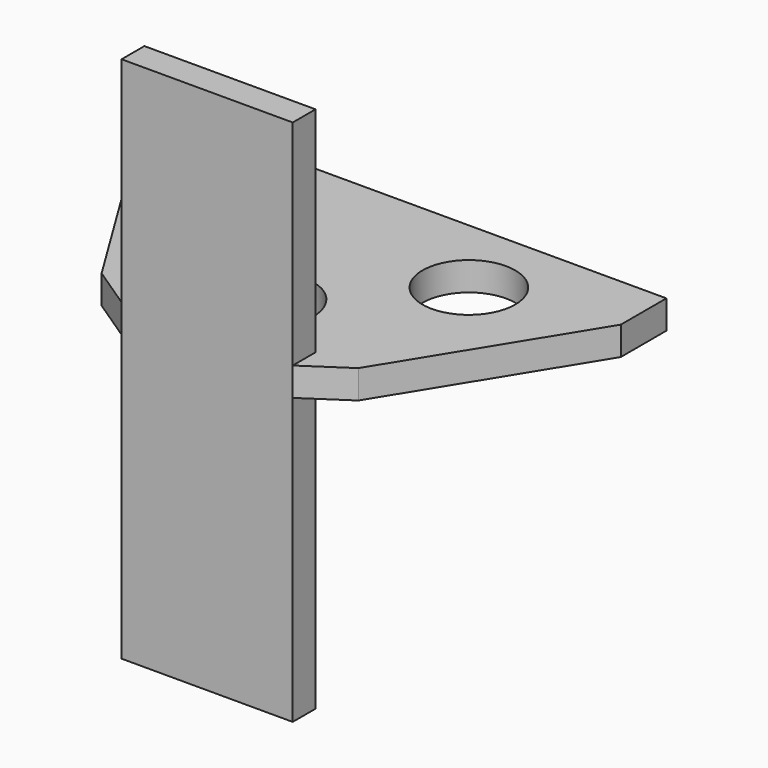
from build123d import *

# Parameters (mm, degrees)
BOX_W           = 34
BOX_H           = 17
BOX_DEPTH       = 2
SKETCH_R        = 3.25
POCKET_DEPTH    = 2
SKETCH001_W     = 6.498788
SKETCH001_H     = 3.187234
POCKET001_DEPTH = 2
POCKET002_DEPTH = 2
SKETCH003_W     = 12
SKETCH003_H     = 2
PAD_DEPTH       = 2
SKETCH004_W     = 12
SKETCH004_H     = 2
PAD001_DEPTH    = 15
SKETCH005_W     = 12
SKETCH005_H     = 2
PAD002_DEPTH    = 20
PAD003_DEPTH    = 2


with BuildPart() as part:
    # Box → Box (new body)
    with BuildSketch(Plane.XY):
        with Locations((17, 8.5)):
            Rectangle(BOX_W, BOX_H)
    extrude(amount=BOX_DEPTH)

    # Sketch → Pocket (cut)
    with BuildSketch(Plane.XY.offset(2)):
        with Locations((9.25, 11.25)):
            Circle(SKETCH_R)
        with Locations((24.75, 11.25)):
            Circle(SKETCH_R)
        with Locations((17, 3.25)):
            Circle(SKETCH_R)
    extrude(amount=-POCKET_DEPTH, mode=Mode.SUBTRACT)

    # Sketch001 → Pocket001 (cut)
    with BuildSketch(Plane.XY.offset(2)):
        with Locations((17, 1.593617)):
            Rectangle(SKETCH001_W, SKETCH001_H)
    extrude(amount=-POCKET001_DEPTH, mode=Mode.SUBTRACT)

    # Sketch002 → Pocket002 (cut)
    with BuildSketch(Plane.XY.offset(2)):
        Polygon((0, 0), (8, 0), (0, 13), align=None)
        Polygon((34, 0), (26, 0), (34, 13), align=None)
    extrude(amount=-POCKET002_DEPTH, mode=Mode.SUBTRACT)

    # Sketch003 → Pad (new body)
    with BuildSketch(Plane.XZ):
        with Locations((17, 1)):
            Rectangle(SKETCH003_W, SKETCH003_H)
    extrude(amount=PAD_DEPTH)

    # Sketch004 → Pad001 (new body)
    with BuildSketch(Plane.XY.offset(2)):
        with Locations((17, -1)):
            Rectangle(SKETCH004_W, SKETCH004_H)
    extrude(amount=PAD001_DEPTH)

    # Sketch005 → Pad002 (new body)
    with BuildSketch(Plane(origin=(0, 0, 0), x_dir=(1, 0, 0), z_dir=(0, 0, -1))):
        with Locations((17, 1)):
            Rectangle(SKETCH005_W, SKETCH005_H)
    extrude(amount=PAD002_DEPTH)

    # Sketch006 → Pad003 (new body)
    with BuildSketch(Plane.XY.offset(2)):
        Polygon((11, 0), (8, 0), (11, -2), align=None)
        Polygon((23, 0), (26, 0), (23, -2), align=None)
    extrude(amount=-PAD003_DEPTH)


solid = part.part
